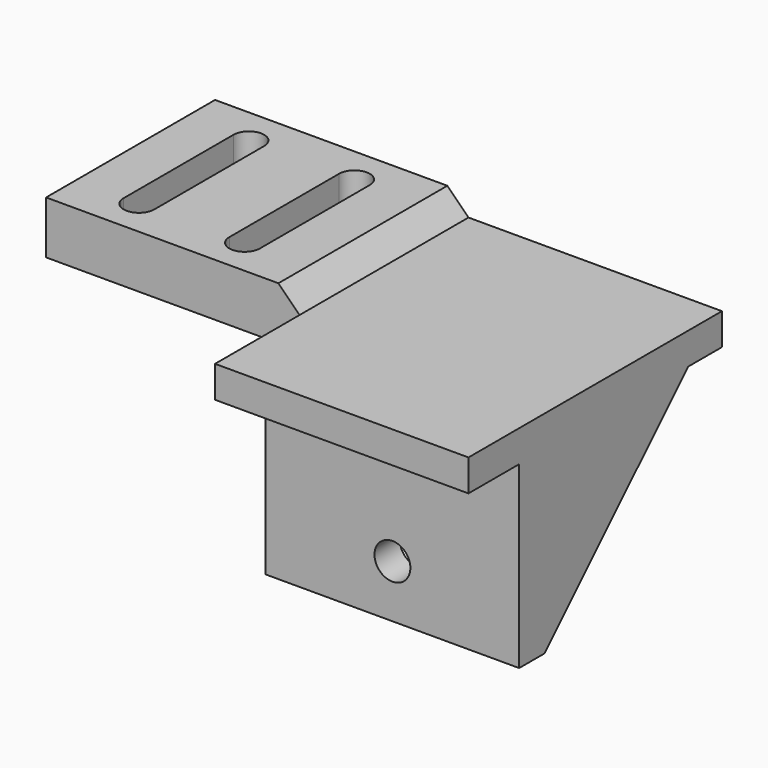
from build123d import *

# Parameters (mm, degrees)
F1_DEPTH  = 48
F2_DEPTH  = 3
F3_W      = 24
F3_H      = 10
F4_DEPTH  = 25
F6_DEPTH  = 3
F7_R      = 1.7
F8_DEPTH  = 9.001
F10_DEPTH = 20
F12_DEPTH = 22.001


with BuildPart() as f1:
    # F0 (on Right) → F1 (new body)
    with BuildSketch(Plane.YZ):
        Polygon((24, 20), (-6, 20), (-6, 17), (0, 17), (0, 0), (3, 0), (3, 17), (20, 17), (24, 17), align=None)
    extrude(amount=-F1_DEPTH)

    # F0 (on Right) → F2 (join)
    with BuildSketch(Plane.YZ):
        Polygon((3, 0), (20, 17), (3, 17), align=None)
    extrude(amount=-F2_DEPTH)

    # F3 (on face) → F4 (cut)
    with BuildSketch(Plane.XY.offset(20)):
        with Locations((-36, -1)):
            Rectangle(F3_W, F3_H)
    extrude(amount=-F4_DEPTH, mode=Mode.SUBTRACT)

    # F5 (on face) → F6 (join)
    with BuildSketch(Plane(origin=(-24, 0, 0), x_dir=(0, -1, 0), z_dir=(-1, 0, 0))):
        Polygon((-3, 0), (-3, 17), (-20, 17), align=None)
    extrude(amount=-F6_DEPTH)

    # F7 (on face) → F8 (cut, through all)
    with BuildSketch(Plane(origin=(0, 3, 0), x_dir=(-1, 0, 0), z_dir=(0, 1, 0))):
        with Locations((12, 5)):
            Circle(F7_R)
    extrude(amount=-F8_DEPTH, mode=Mode.SUBTRACT)

    # F9 (on face) → F10 (join)
    with BuildSketch(Plane.XZ.offset(-4)):
        Polygon((-48, 20), (-24, 20), (-26, 22), (-48, 22), align=None)
    extrude(amount=-F10_DEPTH)

    # F11 (on face) → F12 (cut, through all)
    with BuildSketch(Plane.XY.offset(22)):
        with BuildLine():
            Line((-40.55, 7.5), (-40.55, 20.5))
            ThreePointArc((-40.55, 20.5), (-42, 21.95), (-43.45, 20.5))
            Line((-43.45, 20.5), (-43.45, 7.5))
            ThreePointArc((-43.45, 7.5), (-42, 6.05), (-40.55, 7.5))
        make_face()
        with BuildLine():
            Line((-30.55, 7.5), (-30.55, 20.5))
            ThreePointArc((-30.55, 20.5), (-32, 21.95), (-33.45, 20.5))
            Line((-33.45, 20.5), (-33.45, 7.5))
            ThreePointArc((-33.45, 7.5), (-32, 6.05), (-30.55, 7.5))
        make_face()
    extrude(amount=-F12_DEPTH, mode=Mode.SUBTRACT)


solid = f1.part
